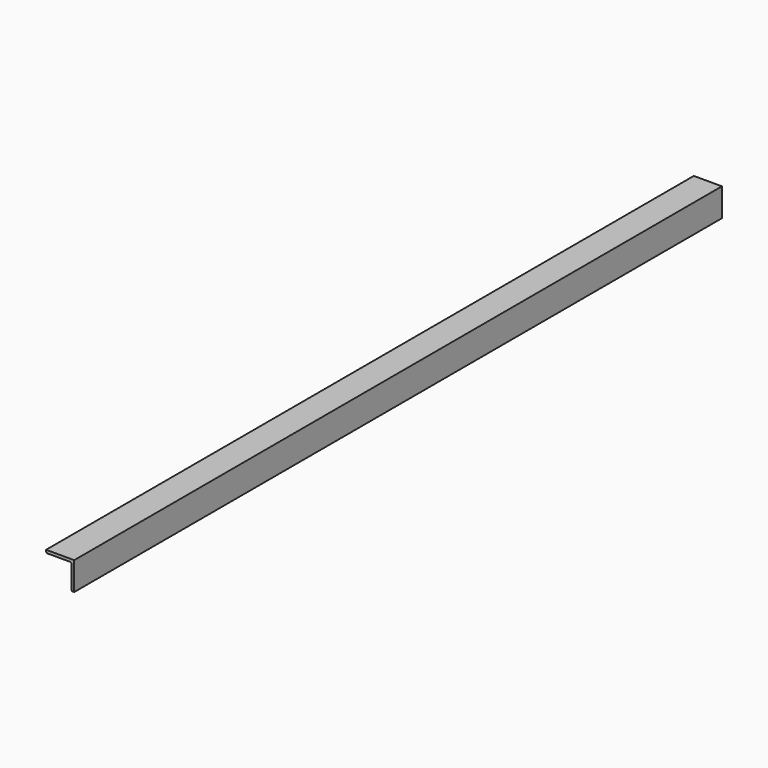
from build123d import *

# Parameters (mm, degrees)
F1_DEPTH = 1828.8


with BuildPart() as f1:
    # F0 (on Front) → F1 (new body)
    with BuildSketch(Plane.XZ):
        with BuildLine():
            Line((-82.365954, -63.5), (-82.365954, 0))
            Line((-82.365954, 0), (-145.865954, 0))
            Line((-145.865954, 0), (-145.865954, -3.175))
            ThreePointArc((-145.865954, -3.175), (-144.936018, -5.420064), (-142.690954, -6.35))
            Line((-142.690954, -6.35), (-91.890954, -6.35))
            ThreePointArc((-91.890954, -6.35), (-89.64589, -7.279936), (-88.715954, -9.525))
            Line((-88.715954, -9.525), (-88.715954, -60.325))
            ThreePointArc((-88.715954, -60.325), (-87.786018, -62.570064), (-85.540954, -63.5))
            Line((-85.540954, -63.5), (-82.365954, -63.5))
        make_face()
    extrude(amount=F1_DEPTH)


solid = f1.part
